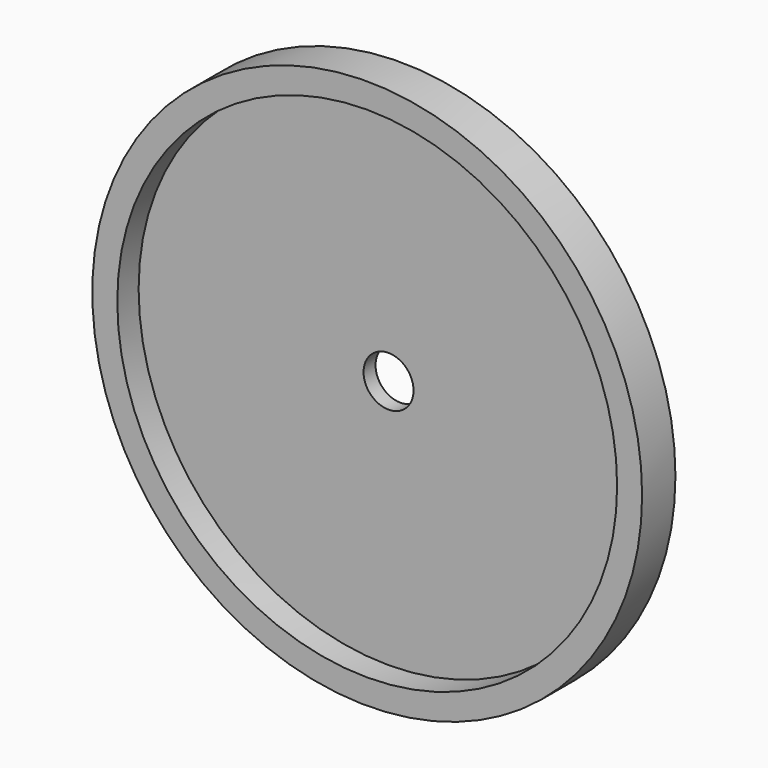
from build123d import *

# Parameters (mm, degrees)
F0_R     = 33
F0_R_2   = 30
F0_R_3   = 3
F1_DEPTH = 1.8
F2_DEPTH = 5


with BuildPart() as f1:
    # F0 (on Front) → F1 (new body)
    with BuildSketch(Plane.XZ):
        Circle(F0_R)
        Circle(F0_R_2, mode=Mode.SUBTRACT)
        Circle(F0_R_2)
        Circle(F0_R_3, mode=Mode.SUBTRACT)
    extrude(amount=F1_DEPTH)

    # F0 (on Front) → F2 (join)
    with BuildSketch(Plane.XZ):
        Circle(F0_R)
        Circle(F0_R_2, mode=Mode.SUBTRACT)
    extrude(amount=F2_DEPTH)


solid = f1.part
